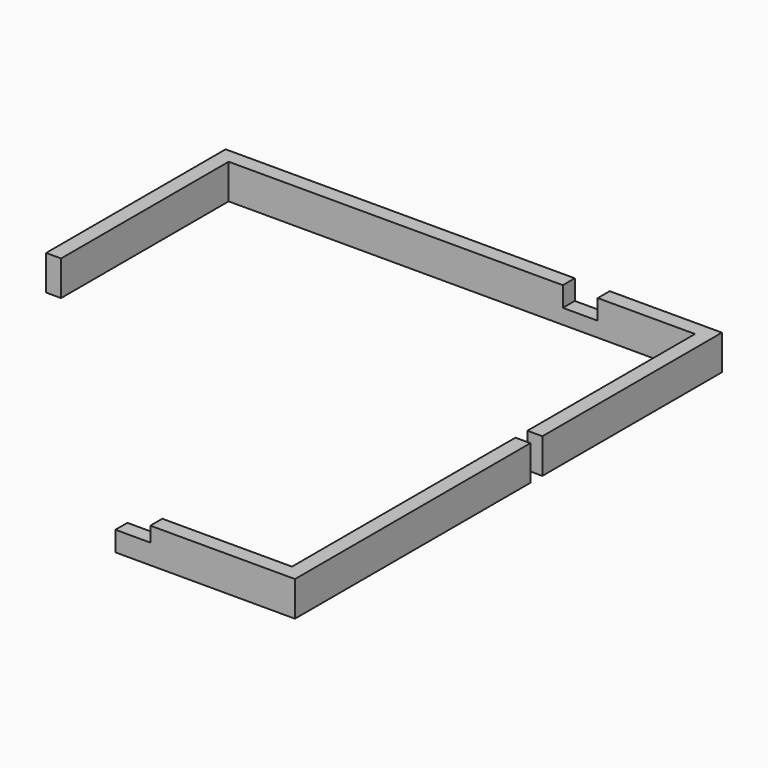
from build123d import *

# Parameters (mm, degrees)
F1_DEPTH = 88.9
F2_W     = 38.1
F2_H     = 38.1
F3_DEPTH = 88.9
F4_W     = 88.9
F4_H     = 38.1
F5_DEPTH = 38.1
F6_W     = 88.9
F6_H     = 38.1
F7_DEPTH = 50.8


with BuildPart() as f1:
    # F0 (on Top) → F1 (new body)
    with BuildSketch(Plane.XY):
        Polygon((0, -1358.9), (0, 0), (-1263.65, 0), (-1263.65, -609.6), (-1225.55, -609.6), (-1225.55, -38.1), (-38.1, -38.1), (-38.1, -1320.8), (-457.2, -1320.8), (-457.2, -1358.9), align=None)
    extrude(amount=F1_DEPTH)

    # F2 (on face) → F3 (cut)
    with BuildSketch(Plane.XY.offset(88.9)):
        with Locations((-19.05, -590.55)):
            Rectangle(F2_W, F2_H)
        with Locations((-1244.6, -590.55)):
            Rectangle(F2_W, F2_H)
        with Locations((-19.05, -590.55)):
            Rectangle(F2_W, F2_H)
    extrude(amount=-F3_DEPTH, mode=Mode.SUBTRACT)

    # F4 (on face) → F5 (cut)
    with BuildSketch(Plane.XY.offset(88.9)):
        with Locations((-412.75, -1339.85)):
            Rectangle(F4_W, F4_H)
    extrude(amount=-F5_DEPTH, mode=Mode.SUBTRACT)

    # F6 (on face) → F7 (cut)
    with BuildSketch(Plane.XY.offset(88.9)):
        with Locations((-330.2, -19.05)):
            Rectangle(F6_W, F6_H)
    extrude(amount=-F7_DEPTH, mode=Mode.SUBTRACT)


solid = f1.part
